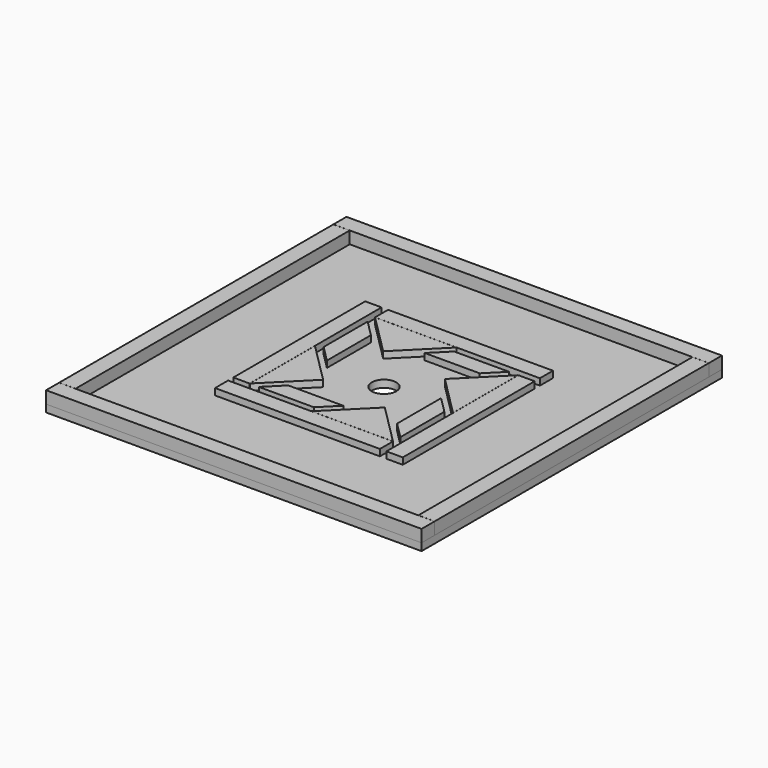
from build123d import *

# Parameters (mm, degrees)
F0_W     = 460
F0_H     = 460
F0_R     = 15
F1_DEPTH = 9
F2_W     = 202
F2_H     = 20
F2_W_2   = 20
F2_H_2   = 202
F3_DEPTH = 8
F4_W     = 460
F4_H     = 20
F4_W_2   = 20
F4_H_2   = 419.8
F5_DEPTH = 15


with BuildPart() as f1:
    # F0 (on Top) → F1 (new body)
    with BuildSketch(Plane.XY):
        with Locations((230, 230)):
            Rectangle(F0_W, F0_H)
        with Locations((230, 230)):
            Circle(F0_R, mode=Mode.SUBTRACT)
    extrude(amount=F1_DEPTH)


with BuildPart() as f3:
    # F2 (on face) → F3 (new body)
    with BuildSketch(Plane.XY.offset(9)):
        with Locations((243.999543, 335.000203)):
            Rectangle(F2_W, F2_H)
        Polygon((242.899543, 324.900203), (143.099543, 324.900203), (192.999543, 275.000203), align=None)
        Polygon((293.685835, 297.000203), (313.685835, 317.000203), (246.313252, 317.000203), (226.313252, 297.000203), align=None)
        Polygon((142.999543, 246.313912), (162.999543, 226.313912), (162.999543, 293.686495), (142.999543, 313.686495), align=None)
        with Locations((124.999543, 244.000203)):
            Rectangle(F2_W_2, F2_H_2)
        Polygon((213.685835, 143.000203), (233.685835, 163.000203), (166.313252, 163.000203), (146.313252, 143.000203), align=None)
        with Locations((215.999543, 125.000203)):
            Rectangle(F2_W, F2_H)
        Polygon((316.999543, 213.686495), (296.999543, 233.686495), (296.999543, 166.313912), (316.999543, 146.313912), align=None)
        with Locations((334.999543, 216.000203)):
            Rectangle(F2_W_2, F2_H_2)
        Polygon((184.999543, 193.000203), (135.099543, 242.900203), (135.099543, 143.100203), align=None)
        Polygon((266.999543, 185.000203), (217.099543, 135.100203), (316.899543, 135.100203), align=None)
        Polygon((274.999543, 267.000203), (324.899543, 217.100203), (324.899543, 316.900203), align=None)
    extrude(amount=F3_DEPTH)


with BuildPart() as f5:
    # F4 (on face) → F5 (new body)
    with BuildSketch(Plane.XY.offset(9)):
        with Locations((230, 450)):
            Rectangle(F4_W, F4_H)
        with Locations((230, 10)):
            Rectangle(F4_W, F4_H)
        with Locations((10, 230)):
            Rectangle(F4_W_2, F4_H_2)
        with Locations((450, 230)):
            Rectangle(F4_W_2, F4_H_2)
    extrude(amount=F5_DEPTH)


solid = Compound([f1.part, f3.part, f5.part])
